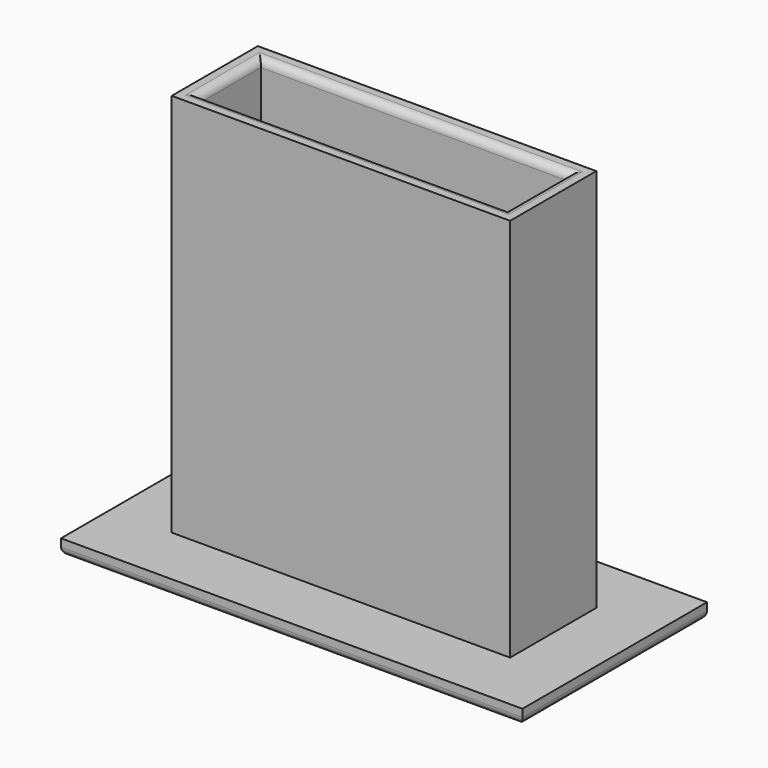
from build123d import *

# Parameters (mm, degrees)
F0_W     = 60
F0_H     = 30
F1_DEPTH = 2
F2_W     = 44
F2_H     = 14
F3_DEPTH = 50
F4_W     = 40
F4_H     = 10
F5_DEPTH = 52.001
F6_R     = 1


with BuildPart() as f1:
    # F0 (on Top) → F1 (new body)
    with BuildSketch(Plane.XY):
        Rectangle(F0_W, F0_H)
    extrude(amount=F1_DEPTH)

    # F2 (on face) → F3 (join)
    with BuildSketch(Plane.XY.offset(2)):
        Rectangle(F2_W, F2_H)
    extrude(amount=F3_DEPTH)

    # F4 (on face) → F5 (cut, through all)
    with BuildSketch(Plane.XY.offset(52)):
        Rectangle(F4_W, F4_H)
    extrude(amount=-F5_DEPTH, mode=Mode.SUBTRACT)

    # F6
    f6_edges = [f1.edges().sort_by_distance(p)[0] for p in [
        (30, 0, 0),
        (0, -15, 0),
        (0, 15, 0),
        (-30, 0, 0),
        (20, 0, 0),
        (0, 5, 0),
        (-20, 0, 0),
        (0, -5, 0),
        (0, 5, 52),
        (-20, 0, 52),
        (0, -5, 52),
        (20, 0, 52),
    ]]
    fillet(f6_edges, radius=F6_R)


solid = f1.part
